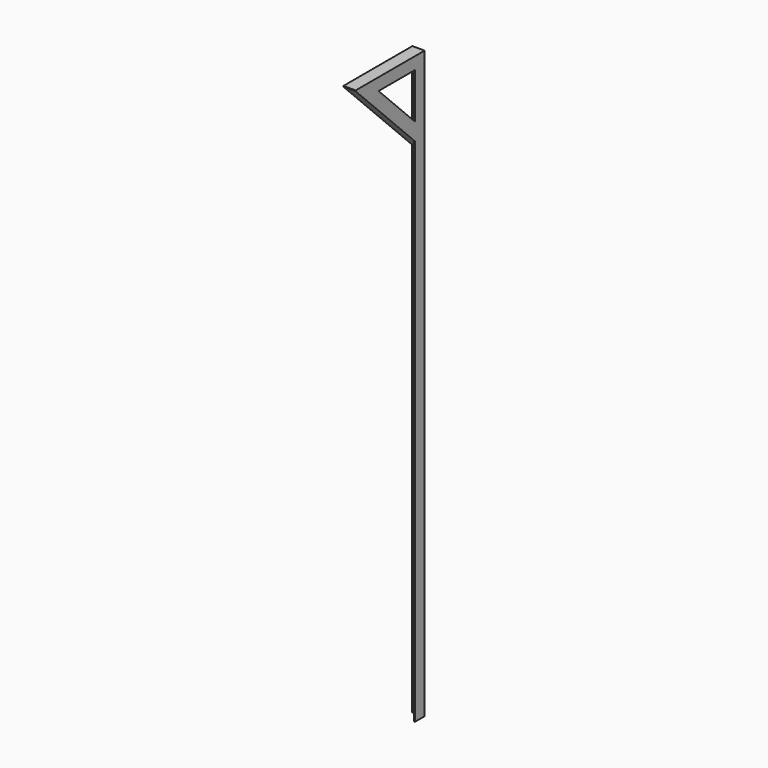
from build123d import *

# Parameters (mm, degrees)
F1_DEPTH  = 2438.4
F2_W      = 3.175
F2_H      = 50.8
F3_DEPTH  = 47.625
F5_DEPTH  = 355.6
F7_DEPTH  = 47.625
F9_DEPTH  = 3.175
F11_DEPTH = 25.4


with BuildPart() as f1:
    # F0 (on Top) → F1 (new body)
    with BuildSketch(Plane.XY):
        Polygon((37.646613, 22.916183), (-13.153387, 22.916183), (-13.153387, 19.741183), (34.471613, 19.741183), (34.471613, -27.883817), (37.646613, -27.883817), align=None)
    extrude(amount=F1_DEPTH)

    # F2 (on face) → F3 (cut)
    with BuildSketch(Plane.XZ.offset(27.883817)):
        with Locations((36.059113, 2413)):
            Rectangle(F2_W, F2_H)
    extrude(amount=-F3_DEPTH, mode=Mode.SUBTRACT)

    # F4 (on face) → F5 (join)
    with BuildSketch(Plane.XZ.offset(-19.741183)):
        Polygon((37.646613, 2438.4), (-13.153387, 2438.4), (-13.153387, 2435.225), (34.471613, 2435.225), (34.471613, 2387.6), (37.646613, 2387.6), align=None)
    extrude(amount=F5_DEPTH)

    # F6 (on face) → F7 (join)
    with BuildSketch(Plane(origin=(34.471613, 0, 0), x_dir=(0, -1, 0), z_dir=(-1, 0, 0))):
        Polygon((-19.741183, 2079.625), (335.858817, 2435.225), (331.368689, 2435.225), (-19.741183, 2084.115128), align=None)
    extrude(amount=F7_DEPTH)

    # F8 (on face) → F9 (join)
    with BuildSketch(Plane.YZ.offset(34.471613)):
        Polygon((-216.391768, 2387.6), (-288.233817, 2387.6), (-27.883817, 2127.25), (-27.883817, 2199.092049), align=None)
    extrude(amount=F9_DEPTH)

    # F10 (on face) → F11 (cut)
    with BuildSketch(Plane(origin=(34.471613, 0, 0), x_dir=(0, -1, 0), z_dir=(-1, 0, 0))):
        Polygon((335.858817, 2387.6), (335.858817, 2435.225), (288.233817, 2387.6), align=None)
    extrude(amount=-F11_DEPTH, mode=Mode.SUBTRACT)


solid = f1.part
